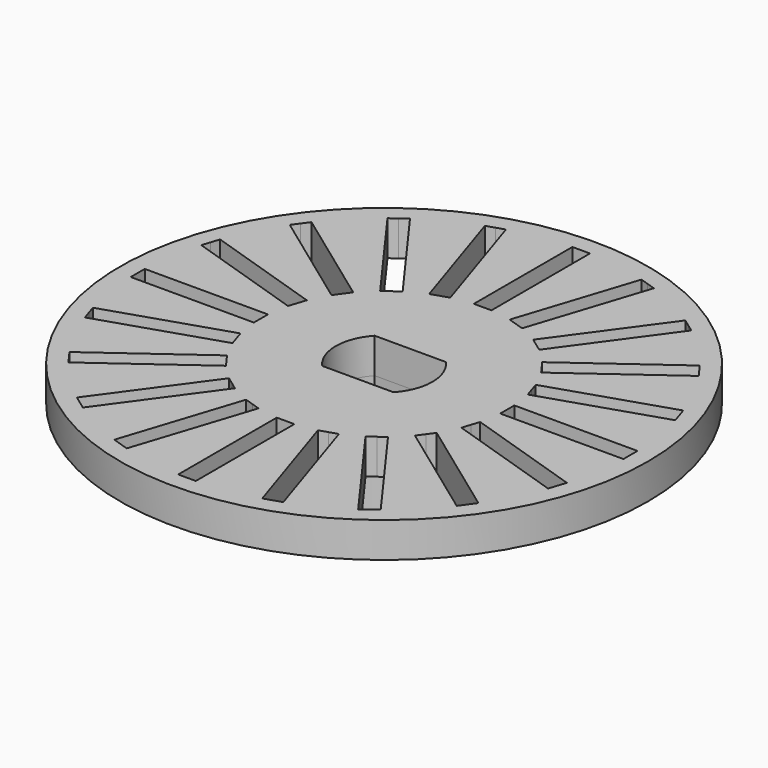
from build123d import *

# Parameters (mm, degrees)
F0_R     = 15
F1_DEPTH = 2
F2_R     = 5
F3_DEPTH = 2
F4_DEPTH = 2
F5_R     = 5
F5_R_2   = 1
F6_DEPTH = 1.5


with BuildPart() as f1:
    # F0 (on Top) → F1 (new body)
    with BuildSketch(Plane.XY):
        Circle(F0_R)
        Polygon((-8.633502, -11.032345), (-4.519005, -5.369226), (-4.114497, -5.663119), (-3.709988, -5.957012), (-7.824485, -11.620131), (-8.228994, -11.326238), align=None, mode=Mode.SUBTRACT)
        Polygon((-4.801766, -13.160283), (-2.638647, -6.502887), (-2.163119, -6.657396), (-1.687591, -6.811904), (-3.85071, -13.4693), (-4.326238, -13.314791), align=None, mode=Mode.SUBTRACT)
        Polygon((-11.620131, -7.824485), (-5.957012, -3.709988), (-5.663119, -4.114497), (-5.369226, -4.519005), (-11.032345, -8.633502), (-11.326238, -8.228994), align=None, mode=Mode.SUBTRACT)
        Polygon((-13.4693, -3.85071), (-6.811904, -1.687591), (-6.657396, -2.163119), (-6.502887, -2.638647), (-13.160283, -4.801766), (-13.314791, -4.326238), align=None, mode=Mode.SUBTRACT)
        Polygon((-0.5, -7), (0, -7), (0.5, -7), (0.5, -14), (0, -14), (-0.5, -14), align=None, mode=Mode.SUBTRACT)
        Polygon((3.85071, -13.4693), (1.687591, -6.811904), (2.163119, -6.657396), (2.638647, -6.502887), (4.801766, -13.160283), (4.326238, -13.314791), align=None, mode=Mode.SUBTRACT)
        Polygon((7.824485, -11.620131), (3.709988, -5.957012), (4.114497, -5.663119), (4.519005, -5.369226), (8.633502, -11.032345), (8.228994, -11.326238), align=None, mode=Mode.SUBTRACT)
        Polygon((11.032345, -8.633502), (5.369226, -4.519005), (5.663119, -4.114497), (5.957012, -3.709988), (11.620131, -7.824485), (11.326238, -8.228994), align=None, mode=Mode.SUBTRACT)
        Polygon((13.160283, -4.801766), (6.502887, -2.638647), (6.657396, -2.163119), (6.811904, -1.687591), (13.4693, -3.85071), (13.314791, -4.326238), align=None, mode=Mode.SUBTRACT)
        Polygon((-14, 0.5), (-7, 0.5), (-7, 0), (-7, -0.5), (-14, -0.5), (-14, 0), align=None, mode=Mode.SUBTRACT)
        Polygon((-13.160283, 4.801766), (-6.502887, 2.638647), (-6.657396, 2.163119), (-6.811904, 1.687591), (-13.4693, 3.85071), (-13.314791, 4.326238), align=None, mode=Mode.SUBTRACT)
        Polygon((-11.032345, 8.633502), (-5.369226, 4.519005), (-5.663119, 4.114497), (-5.957012, 3.709988), (-11.620131, 7.824485), (-11.326238, 8.228994), align=None, mode=Mode.SUBTRACT)
        Polygon((-7.824485, 11.620131), (-3.709988, 5.957012), (-4.114497, 5.663119), (-4.519005, 5.369226), (-8.633502, 11.032345), (-8.228994, 11.326238), align=None, mode=Mode.SUBTRACT)
        Polygon((-3.85071, 13.4693), (-1.687591, 6.811904), (-2.163119, 6.657396), (-2.638647, 6.502887), (-4.801766, 13.160283), (-4.326238, 13.314791), align=None, mode=Mode.SUBTRACT)
        with BuildLine():
            ThreePointArc((-2.025562, -1.86), (-2.75, 0), (-2.025562, 1.86))
            Line((-2.025562, 1.86), (2.025562, 1.86))
            ThreePointArc((2.025562, 1.86), (2.75, 0), (2.025562, -1.86))
            Line((2.025562, -1.86), (-2.025562, -1.86))
        make_face(mode=Mode.SUBTRACT)
        Polygon((14, -0.5), (7, -0.5), (7, 0), (7, 0.5), (14, 0.5), (14, 0), align=None, mode=Mode.SUBTRACT)
        Polygon((13.4693, 3.85071), (6.811904, 1.687591), (6.657396, 2.163119), (6.502887, 2.638647), (13.160283, 4.801766), (13.314791, 4.326238), align=None, mode=Mode.SUBTRACT)
        Polygon((11.620131, 7.824485), (5.957012, 3.709988), (5.663119, 4.114497), (5.369226, 4.519005), (11.032345, 8.633502), (11.326238, 8.228994), align=None, mode=Mode.SUBTRACT)
        Polygon((0.5, 14), (0.5, 7), (0, 7), (-0.5, 7), (-0.5, 14), (0, 14), align=None, mode=Mode.SUBTRACT)
        Polygon((4.801766, 13.160283), (2.638647, 6.502887), (2.163119, 6.657396), (1.687591, 6.811904), (3.85071, 13.4693), (4.326238, 13.314791), align=None, mode=Mode.SUBTRACT)
        Polygon((8.633502, 11.032345), (4.519005, 5.369226), (4.114497, 5.663119), (3.709988, 5.957012), (7.824485, 11.620131), (8.228994, 11.326238), align=None, mode=Mode.SUBTRACT)
        Circle(F0_R)
        Polygon((-8.633502, -11.032345), (-4.519005, -5.369226), (-4.114497, -5.663119), (-3.709988, -5.957012), (-7.824485, -11.620131), (-8.228994, -11.326238), align=None, mode=Mode.SUBTRACT)
        Polygon((-4.801766, -13.160283), (-2.638647, -6.502887), (-2.163119, -6.657396), (-1.687591, -6.811904), (-3.85071, -13.4693), (-4.326238, -13.314791), align=None, mode=Mode.SUBTRACT)
        Polygon((-11.620131, -7.824485), (-5.957012, -3.709988), (-5.663119, -4.114497), (-5.369226, -4.519005), (-11.032345, -8.633502), (-11.326238, -8.228994), align=None, mode=Mode.SUBTRACT)
        Polygon((-13.4693, -3.85071), (-6.811904, -1.687591), (-6.657396, -2.163119), (-6.502887, -2.638647), (-13.160283, -4.801766), (-13.314791, -4.326238), align=None, mode=Mode.SUBTRACT)
        Polygon((-0.5, -7), (0, -7), (0.5, -7), (0.5, -14), (0, -14), (-0.5, -14), align=None, mode=Mode.SUBTRACT)
        Polygon((3.85071, -13.4693), (1.687591, -6.811904), (2.163119, -6.657396), (2.638647, -6.502887), (4.801766, -13.160283), (4.326238, -13.314791), align=None, mode=Mode.SUBTRACT)
        Polygon((7.824485, -11.620131), (3.709988, -5.957012), (4.114497, -5.663119), (4.519005, -5.369226), (8.633502, -11.032345), (8.228994, -11.326238), align=None, mode=Mode.SUBTRACT)
        Polygon((11.032345, -8.633502), (5.369226, -4.519005), (5.663119, -4.114497), (5.957012, -3.709988), (11.620131, -7.824485), (11.326238, -8.228994), align=None, mode=Mode.SUBTRACT)
        Polygon((13.160283, -4.801766), (6.502887, -2.638647), (6.657396, -2.163119), (6.811904, -1.687591), (13.4693, -3.85071), (13.314791, -4.326238), align=None, mode=Mode.SUBTRACT)
        Polygon((-14, 0.5), (-7, 0.5), (-7, 0), (-7, -0.5), (-14, -0.5), (-14, 0), align=None, mode=Mode.SUBTRACT)
        Polygon((-13.160283, 4.801766), (-6.502887, 2.638647), (-6.657396, 2.163119), (-6.811904, 1.687591), (-13.4693, 3.85071), (-13.314791, 4.326238), align=None, mode=Mode.SUBTRACT)
        Polygon((-11.032345, 8.633502), (-5.369226, 4.519005), (-5.663119, 4.114497), (-5.957012, 3.709988), (-11.620131, 7.824485), (-11.326238, 8.228994), align=None, mode=Mode.SUBTRACT)
        Polygon((-7.824485, 11.620131), (-3.709988, 5.957012), (-4.114497, 5.663119), (-4.519005, 5.369226), (-8.633502, 11.032345), (-8.228994, 11.326238), align=None, mode=Mode.SUBTRACT)
        Polygon((-3.85071, 13.4693), (-1.687591, 6.811904), (-2.163119, 6.657396), (-2.638647, 6.502887), (-4.801766, 13.160283), (-4.326238, 13.314791), align=None, mode=Mode.SUBTRACT)
        with BuildLine():
            ThreePointArc((-2.025562, -1.86), (-2.75, 0), (-2.025562, 1.86))
            Line((-2.025562, 1.86), (2.025562, 1.86))
            ThreePointArc((2.025562, 1.86), (2.75, 0), (2.025562, -1.86))
            Line((2.025562, -1.86), (-2.025562, -1.86))
        make_face(mode=Mode.SUBTRACT)
        Polygon((14, -0.5), (7, -0.5), (7, 0), (7, 0.5), (14, 0.5), (14, 0), align=None, mode=Mode.SUBTRACT)
        Polygon((13.4693, 3.85071), (6.811904, 1.687591), (6.657396, 2.163119), (6.502887, 2.638647), (13.160283, 4.801766), (13.314791, 4.326238), align=None, mode=Mode.SUBTRACT)
        Polygon((11.620131, 7.824485), (5.957012, 3.709988), (5.663119, 4.114497), (5.369226, 4.519005), (11.032345, 8.633502), (11.326238, 8.228994), align=None, mode=Mode.SUBTRACT)
        Polygon((0.5, 14), (0.5, 7), (0, 7), (-0.5, 7), (-0.5, 14), (0, 14), align=None, mode=Mode.SUBTRACT)
        Polygon((4.801766, 13.160283), (2.638647, 6.502887), (2.163119, 6.657396), (1.687591, 6.811904), (3.85071, 13.4693), (4.326238, 13.314791), align=None, mode=Mode.SUBTRACT)
        Polygon((8.633502, 11.032345), (4.519005, 5.369226), (4.114497, 5.663119), (3.709988, 5.957012), (7.824485, 11.620131), (8.228994, 11.326238), align=None, mode=Mode.SUBTRACT)
    extrude(amount=F1_DEPTH)


with BuildPart() as f3:
    # F2 (on Top) → F3 (new body)
    with BuildSketch(Plane.XY):
        Circle(F2_R)
    extrude(amount=-F3_DEPTH)

    # F0 (on Top) → F4 (cut)
    with BuildSketch(Plane.XY):
        with BuildLine():
            Line((2.025562, 1.86), (-2.025562, 1.86))
            ThreePointArc((-2.025562, 1.86), (-2.75, 0), (-2.025562, -1.86))
            Line((-2.025562, -1.86), (2.025562, -1.86))
            ThreePointArc((2.025562, -1.86), (2.75, 0), (2.025562, 1.86))
        make_face()
    extrude(amount=-F4_DEPTH, mode=Mode.SUBTRACT)

    # F5 (on face) → F6 (join)
    with BuildSketch(Plane(origin=(0, 0, -2), x_dir=(1, 0, 0), z_dir=(0, 0, -1))):
        Circle(F5_R)
        Circle(F5_R_2, mode=Mode.SUBTRACT)
        Circle(F5_R)
        Circle(F5_R_2, mode=Mode.SUBTRACT)
    extrude(amount=F6_DEPTH)


solid = Compound([f1.part, f3.part])
